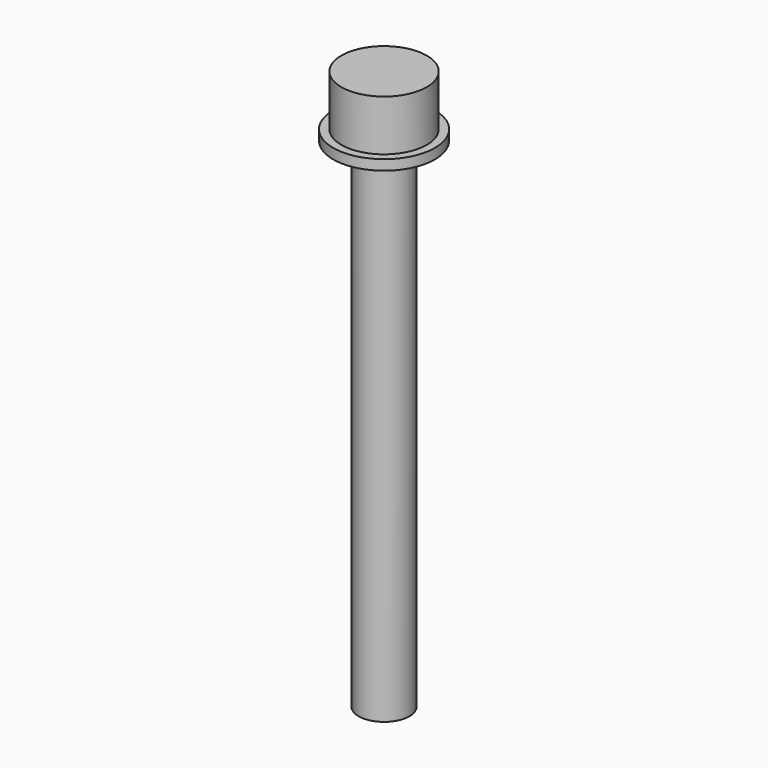
from build123d import *

# Parameters (mm, degrees)
F0_R     = 2.5
F1_DEPTH = 50
F2_R     = 4.2
F3_DEPTH = 5
F4_R     = 5
F5_DEPTH = 1


with BuildPart() as f1:
    # F0 (on Top) → F1 (new body)
    with BuildSketch(Plane.XY):
        Circle(F0_R)
    extrude(amount=-F1_DEPTH)

    # F2 (on Top) → F3 (join)
    with BuildSketch(Plane.XY):
        Circle(F2_R)
    extrude(amount=F3_DEPTH)

    # F4 (on Top) → F5 (join)
    with BuildSketch(Plane.XY):
        Circle(F4_R)
    extrude(amount=-F5_DEPTH)


solid = f1.part
